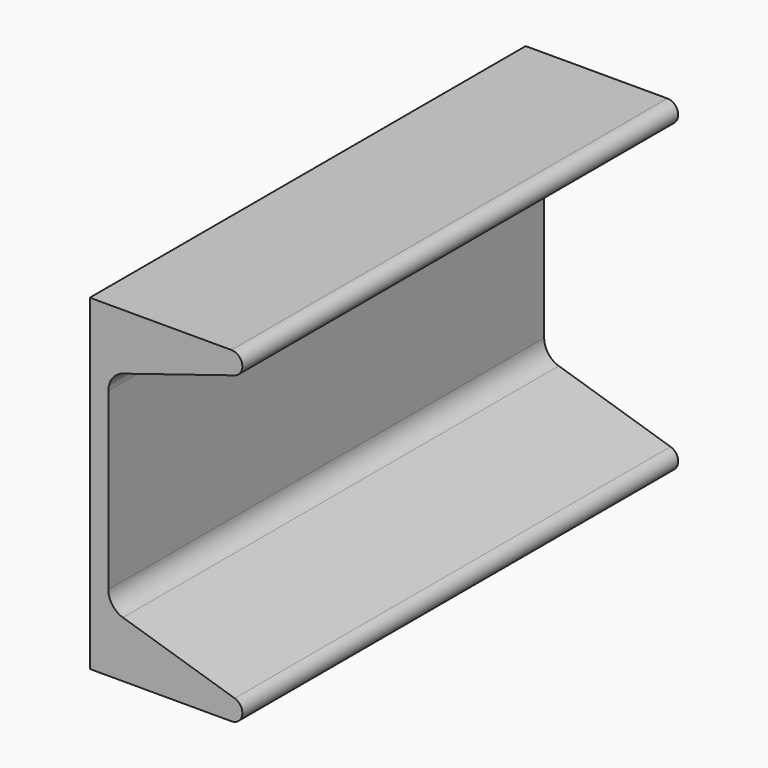
from build123d import *

# Parameters (mm, degrees)
F1_DEPTH = 63.5


with BuildPart() as f1:
    # F0 (on Front) → F1 (new body, symmetric)
    with BuildSketch(Plane.XZ):
        with BuildLine():
            Line((-68.543319, 38.1), (-68.543319, 0))
            Line((-68.543319, 0), (-68.543319, -38.1))
            Line((-68.543319, -38.1), (-35.523319, -38.1))
            ThreePointArc((-35.523319, -38.1), (-33.012193, -35.941896), (-34.76821, -33.134838))
            Line((-34.76821, -33.134838), (-60.816178, -25.024425))
            ThreePointArc((-60.816178, -25.024425), (-63.28116, -23.268049), (-64.225319, -20.392366))
            Line((-64.225319, -20.392366), (-64.225319, 0))
            Line((-64.225319, 0), (-64.225319, 20.392366))
            ThreePointArc((-64.225319, 20.392366), (-63.28116, 23.268049), (-60.816178, 25.024425))
            Line((-60.816178, 25.024425), (-34.76821, 33.134838))
            ThreePointArc((-34.76821, 33.134838), (-33.012193, 35.941896), (-35.523319, 38.1))
            Line((-35.523319, 38.1), (-68.543319, 38.1))
        make_face()
    extrude(amount=F1_DEPTH, both=True)


solid = f1.part
